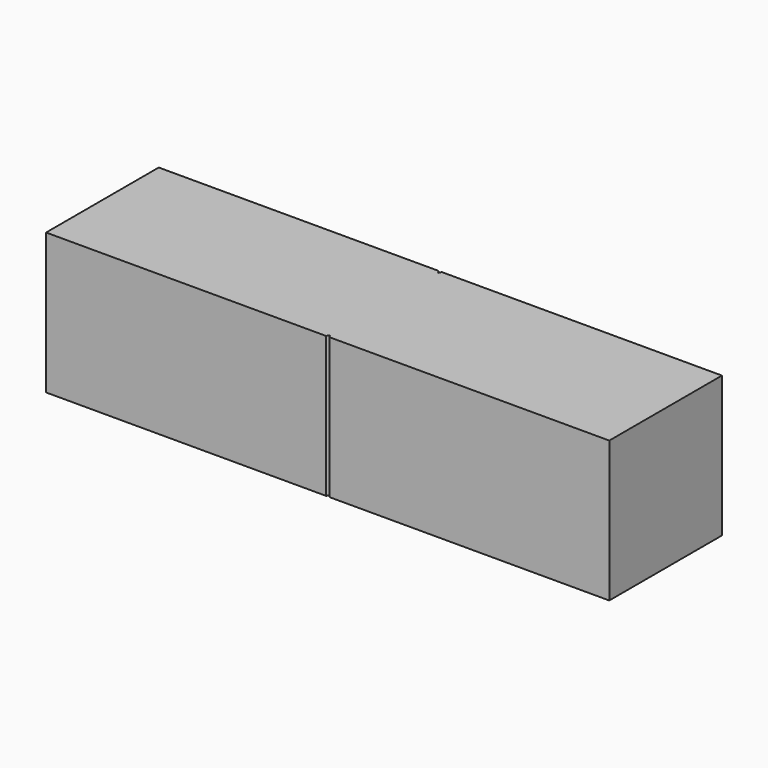
from build123d import *

# Parameters (mm, degrees)
F0_W     = 80
F0_H     = 20
F1_DEPTH = 20
F3_DEPTH = 20.001


with BuildPart() as f1:
    # F0 (on Top) → F1 (new body)
    with BuildSketch(Plane.XY):
        Rectangle(F0_W, F0_H)
    extrude(amount=F1_DEPTH)

    # F2 (on face) → F3 (cut, through all)
    with BuildSketch(Plane.XY.offset(20)):
        Polygon((0, -9.6), (-0.23094, -10), (0.23094, -10), align=None)
        Polygon((0.23094, 10), (-0.23094, 10), (0, 9.6), align=None)
    extrude(amount=-F3_DEPTH, mode=Mode.SUBTRACT)


solid = f1.part
